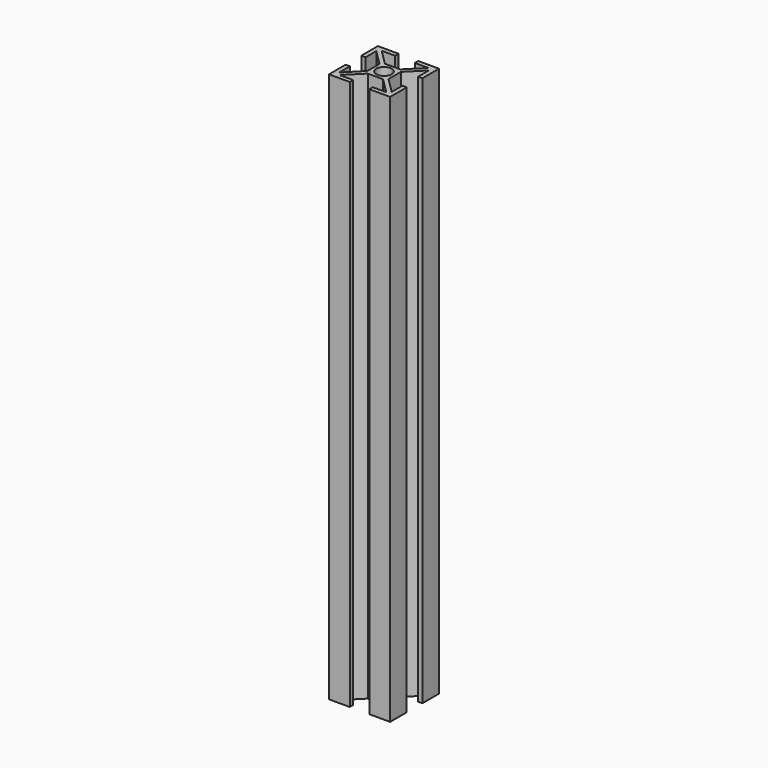
from build123d import *

# Parameters (mm, degrees)
F0_R     = 2.5
F1_DEPTH = 180


with BuildPart() as f1:
    # F0 (on Top) → F1 (new body)
    with BuildSketch(Plane.XY):
        Polygon((6.5, 7.616114), (1.4, 2.389949), (1.4, 6.8), (0, 6.8), (0, 0), (6.8, 0), (6.8, 1.4), (2.389949, 1.4), (7.489949, 6.5), (12.510051, 6.5), (17.610051, 1.4), (13.2, 1.4), (13.2, 0), (20, 0), (20, 6.8), (18.6, 6.8), (18.6, 2.389949), (13.5, 7.489949), (13.5, 12.510051), (18.6, 17.610051), (18.6, 13.2), (20, 13.2), (20, 20), (13.2, 20), (13.2, 18.6), (17.610051, 18.6), (12.510051, 13.5), (7.489949, 13.5), (2.389949, 18.6), (6.8, 18.6), (6.8, 20), (0, 20), (0, 13.2), (1.4, 13.2), (1.4, 17.610051), (6.5, 12.510051), align=None)
        with Locations((10, 10)):
            Circle(F0_R, mode=Mode.SUBTRACT)
    extrude(amount=F1_DEPTH)


solid = f1.part
